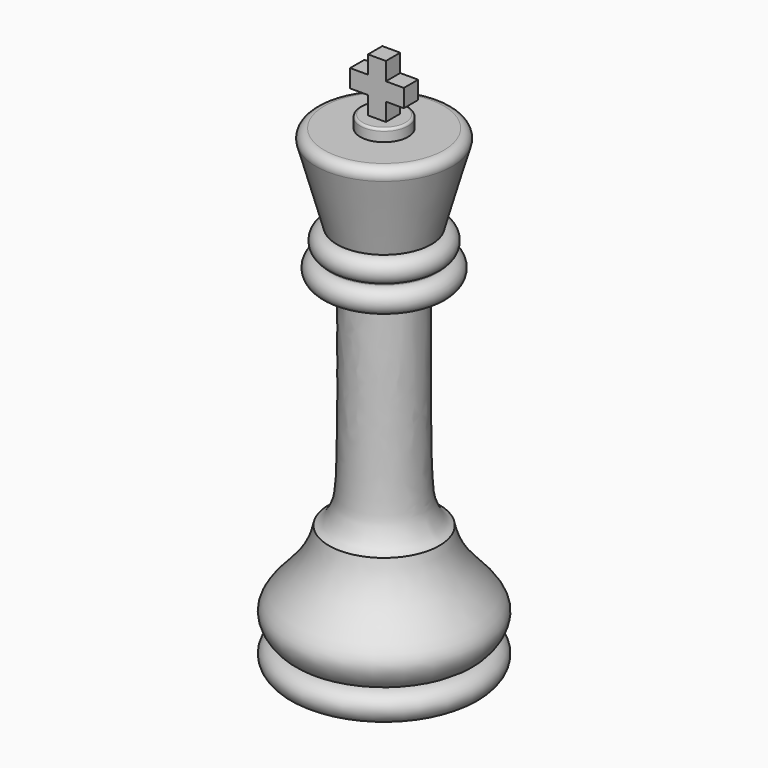
from build123d import *

# Parameters (mm, degrees)
F2_R      = 1.5
F4_R      = 4
F5_DEPTH  = 2
F10_DEPTH = 3
F11_R     = 0.4


with BuildPart() as f1:
    # F0 (on Front) → F1 (revolve)
    with BuildSketch(Plane.XZ):
        with BuildLine():
            Line((0, 80), (0, 0))
            Line((0, 0), (14, 0))
            add(Edge.make_bspline(
                [(14, 0), (15.4904196, 0), (17.5932216347, 2.6730890358), (15.4653107602, 4.6790827669), (14, 4.7972590347)],
                knots=[0, 0, 0, 0, 0.5068802887, 1, 1, 1, 1], degree=3))
            add(Edge.make_bspline(
                [(14, 4.7972590347), (15.0673829495, 5.2038515038), (18.3263386337, 9.3748002384), (12.0466218537, 14.400661765), (9.744344858, 18.8286250546), (9.2553384602, 21.4140452445)],
                knots=[0, 0, 0, 0, 0.2867350648, 0.6332707743, 1, 1, 1, 1], degree=3))
            add(Edge.make_bspline(
                [(9.2553384602, 21.4140452445), (8.2982252482, 21.8210460844), (7.0291055435, 23.8120283993), (5.8882068574, 27.6267435886), (6.2525426038, 48.0308681726), (6.1309494898, 57.433437556)],
                knots=[0, 0, 0, 0, 0.1860362898, 0.4021171777, 1, 1, 1, 1], degree=3))
            Line((6.1309494898, 57.433437556), (8.8177042902, 57.433437556))
            ThreePointArc((8.8177042902, 57.433437556), (10.8182689995, 59.4340022653), (8.8177042902, 61.4345669746))
            Line((8.8177042902, 61.4345669746), (7.9151777439, 61.4345669746))
            ThreePointArc((7.9151777439, 61.4345669746), (9.908085119, 63.4274743497), (7.9151777439, 65.4203817248))
            Line((7.9151777439, 65.4203817248), (12, 80))
            Line((12, 80), (0, 80))
        make_face()
    revolve(axis=Axis((0, 0, 40), (0, 0, -1)))

    # F2
    f2_edges = [f1.edges().sort_by_distance(p)[0] for p in [
        (-12, 0, 80),
    ]]
    fillet(f2_edges, radius=F2_R)

    # F4 (on offset) → F5 (join)
    with BuildSketch(Plane.XY.offset(80)):
        Circle(F4_R)
    extrude(amount=F5_DEPTH)

    # F9 (on offset) → F10 (join)
    with BuildSketch(Plane.XZ.offset(1.5)):
        Polygon((-1.5, 85), (-1.5, 82), (1.5, 82), (1.5, 85), (4.5, 85), (4.5, 88), (1.5, 88), (1.5, 91), (-1.5, 91), (-1.5, 88), (-4.5, 88), (-4.5, 85), align=None)
    extrude(amount=-F10_DEPTH)

    # F11
    f11_edges = [f1.edges().sort_by_distance(p)[0] for p in [
        (-4, 0, 82),
    ]]
    fillet(f11_edges, radius=F11_R)


solid = f1.part
